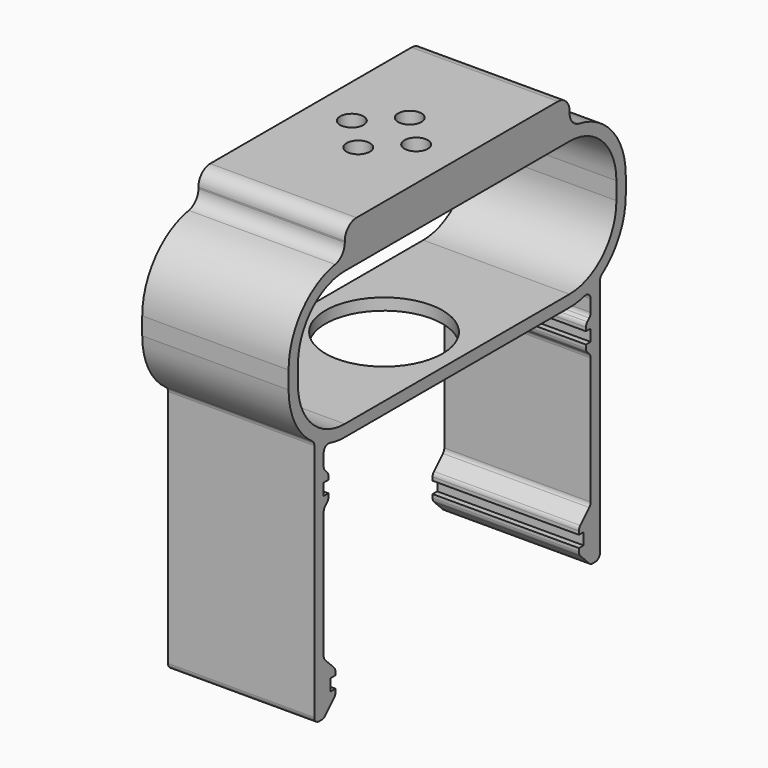
from build123d import *

# Parameters (mm, degrees)
F1_DEPTH       = 25
F3_DEPTH       = 5
F2_R           = 2
F4_DEPTH       = 7.001
F6_D           = 4
F6_CBORE_D     = 7.5
F6_CBORE_DEPTH = 2.5
F7_R           = 10
F8_DEPTH       = 2
F9_R           = 2.5


with BuildPart() as f1:
    # F0 (on Right) → F1 (new body)
    with BuildSketch(Plane.YZ):
        with BuildLine():
            Line((24, 25), (-24, 25))
            ThreePointArc((-24, 25), (-32.4852813742, 21.4852813742), (-36, 13))
            Line((-36, 13), (-36, 10))
            ThreePointArc((-36, 10), (-34.6554428129, 4.480802734), (-30.9230769231, 0.1984181931))
            ThreePointArc((-30.9230769231, 0.1984181931), (-30.6120464323, -0.1584471853), (-30.5, -0.6183802908))
            Line((-30.5, -0.6183802908), (-30.5, -41.5))
            ThreePointArc((-30.5, -41.5), (-30.2071067812, -42.2071067812), (-29.5, -42.5))
            Line((-29.5, -42.5), (-28.9142135624, -42.5))
            ThreePointArc((-28.9142135624, -42.5), (-28.53153013, -42.4238795325), (-28.2071067812, -42.2071067812))
            Line((-28.2071067812, -42.2071067812), (-26.2928932188, -40.2928932188))
            ThreePointArc((-26.2928932188, -40.2928932188), (-26.0761204675, -39.96846987), (-26, -39.5857864376))
            Line((-26, -39.5857864376), (-26, -39))
            Line((-26, -39), (-27, -39))
            Line((-27, -39), (-27, -37))
            Line((-27, -37), (-26, -37))
            Line((-26, -37), (-26, -36.4142135624))
            ThreePointArc((-26, -36.4142135624), (-26.0761204675, -36.03153013), (-26.2928932188, -35.7071067812))
            Line((-26.2928932188, -35.7071067812), (-28.2071067812, -33.7928932188))
            ThreePointArc((-28.2071067812, -33.7928932188), (-28.4238795325, -33.46846987), (-28.5, -33.0857864376))
            Line((-28.5, -33.0857864376), (-28.5, -11.4142135624))
            ThreePointArc((-28.5, -11.4142135624), (-28.4238795325, -11.03153013), (-28.2071067812, -10.7071067812))
            Line((-28.2071067812, -10.7071067812), (-27.7928932188, -10.2928932188))
            ThreePointArc((-27.7928932188, -10.2928932188), (-27.5761204675, -9.96846987), (-27.5, -9.5857864376))
            Line((-27.5, -9.5857864376), (-27.5, -9))
            Line((-27.5, -9), (-28.5, -9))
            Line((-28.5, -9), (-28.5, -7))
            Line((-28.5, -7), (-27.5, -7))
            Line((-27.5, -7), (-27.5, -6.4142135624))
            ThreePointArc((-27.5, -6.4142135624), (-27.5761204675, -6.03153013), (-27.7928932188, -5.7071067812))
            Line((-27.7928932188, -5.7071067812), (-28.2071067812, -5.2928932188))
            ThreePointArc((-28.2071067812, -5.2928932188), (-28.4238795325, -4.96846987), (-28.5, -4.5857864376))
            Line((-28.5, -4.5857864376), (-28.5, -2.5199840255))
            ThreePointArc((-28.5, -2.5199840255), (-28.1044705248, -1.7233565187), (-27.2307692308, -1.5569083313))
            ThreePointArc((-27.2307692308, -1.5569083313), (-25.6305060602, -1.8887110314), (-24, -2))
            Line((-24, -2), (24, -2))
            ThreePointArc((24, -2), (25.6305060602, -1.8887110314), (27.2307692308, -1.5569083313))
            ThreePointArc((27.2307692308, -1.5569083313), (28.1044705248, -1.7233565187), (28.5, -2.5199840255))
            Line((28.5, -2.5199840255), (28.5, -4.5857864376))
            ThreePointArc((28.5, -4.5857864376), (28.4238795325, -4.96846987), (28.2071067812, -5.2928932188))
            Line((28.2071067812, -5.2928932188), (27.7928932188, -5.7071067812))
            ThreePointArc((27.7928932188, -5.7071067812), (27.5761204675, -6.03153013), (27.5, -6.4142135624))
            Line((27.5, -6.4142135624), (27.5, -7))
            Line((27.5, -7), (28.5, -7))
            Line((28.5, -7), (28.5, -9))
            Line((28.5, -9), (27.5, -9))
            Line((27.5, -9), (27.5, -9.5857864376))
            ThreePointArc((27.5, -9.5857864376), (27.5761204675, -9.96846987), (27.7928932188, -10.2928932188))
            Line((27.7928932188, -10.2928932188), (28.2071067812, -10.7071067812))
            ThreePointArc((28.2071067812, -10.7071067812), (28.4238795325, -11.03153013), (28.5, -11.4142135624))
            Line((28.5, -11.4142135624), (28.5, -33.0857864376))
            ThreePointArc((28.5, -33.0857864376), (28.4238795325, -33.46846987), (28.2071067812, -33.7928932188))
            Line((28.2071067812, -33.7928932188), (26.2928932188, -35.7071067812))
            ThreePointArc((26.2928932188, -35.7071067812), (26.0761204675, -36.03153013), (26, -36.4142135624))
            Line((26, -36.4142135624), (26, -37))
            Line((26, -37), (27, -37))
            Line((27, -37), (27, -39))
            Line((27, -39), (26, -39))
            Line((26, -39), (26, -39.5857864376))
            ThreePointArc((26, -39.5857864376), (26.0761204675, -39.96846987), (26.2928932188, -40.2928932188))
            Line((26.2928932188, -40.2928932188), (28.2071067812, -42.2071067812))
            ThreePointArc((28.2071067812, -42.2071067812), (28.53153013, -42.4238795325), (28.9142135624, -42.5))
            Line((28.9142135624, -42.5), (29.5, -42.5))
            ThreePointArc((29.5, -42.5), (30.2071067812, -42.2071067812), (30.5, -41.5))
            Line((30.5, -41.5), (30.5, -0.6183802908))
            ThreePointArc((30.5, -0.6183802908), (30.6120464323, -0.1584471853), (30.9230769231, 0.1984181931))
            ThreePointArc((30.9230769231, 0.1984181931), (34.6554428129, 4.480802734), (36, 10))
            Line((36, 10), (36, 13))
            ThreePointArc((36, 13), (32.4852813742, 21.4852813742), (24, 25))
        make_face()
        with BuildLine():
            Line((24, 0), (-24, 0))
            ThreePointArc((-24, 0), (-31.0710678119, 2.9289321881), (-34, 10))
            Line((-34, 10), (-34, 13))
            ThreePointArc((-34, 13), (-31.0710678119, 20.0710678119), (-24, 23))
            Line((-24, 23), (24, 23))
            ThreePointArc((24, 23), (31.0710678119, 20.0710678119), (34, 13))
            Line((34, 13), (34, 10))
            ThreePointArc((34, 10), (31.0710678119, 2.9289321881), (24, 0))
        make_face(mode=Mode.SUBTRACT)
    extrude(amount=F1_DEPTH)

    # F3 (add): a face of the model
    f3_faces = [f1.faces().sort_by_distance(p)[0] for p in [
        (12.5, 0, 25),
    ]]
    extrude(f3_faces, amount=F3_DEPTH)

    # F2 (on face) → F4 (cut, through all)
    with BuildSketch(Plane(origin=(0, 0, 23), x_dir=(1, 0, 0), z_dir=(0, 0, -1))):
        with Locations((7, 0)):
            Circle(F2_R)
        with Locations((12.5, -5.5)):
            Circle(F2_R)
        with Locations((18, 0)):
            Circle(F2_R)
        with Locations((12.5, 5.5)):
            Circle(F2_R)
    extrude(amount=-F4_DEPTH, mode=Mode.SUBTRACT)

    # F6 (through all)
    with Locations(Plane(origin=(0, 0, 23), x_dir=(1, 0, 0), z_dir=(0, 0, -1))):
        with Locations((12.5, -5.5), (7, 0), (18, 0), (12.5, 5.5)):
            CounterBoreHole(F6_D / 2, F6_CBORE_D / 2, F6_CBORE_DEPTH)

    # F7 (on face) → F8 (cut, through all)
    with BuildSketch(Plane(origin=(0, 0, -2), x_dir=(1, 0, 0), z_dir=(0, 0, -1))):
        with Locations((12.5, 0)):
            Circle(F7_R)
    extrude(amount=-F8_DEPTH, mode=Mode.SUBTRACT)

    # F9
    f9_edges = [f1.edges().sort_by_distance(p)[0] for p in [
        (12.5, -24, 25),
        (12.5, 24, 25),
        (12.5, 24, 30),
        (12.5, -24, 30),
    ]]
    fillet(f9_edges, radius=F9_R)


solid = f1.part
